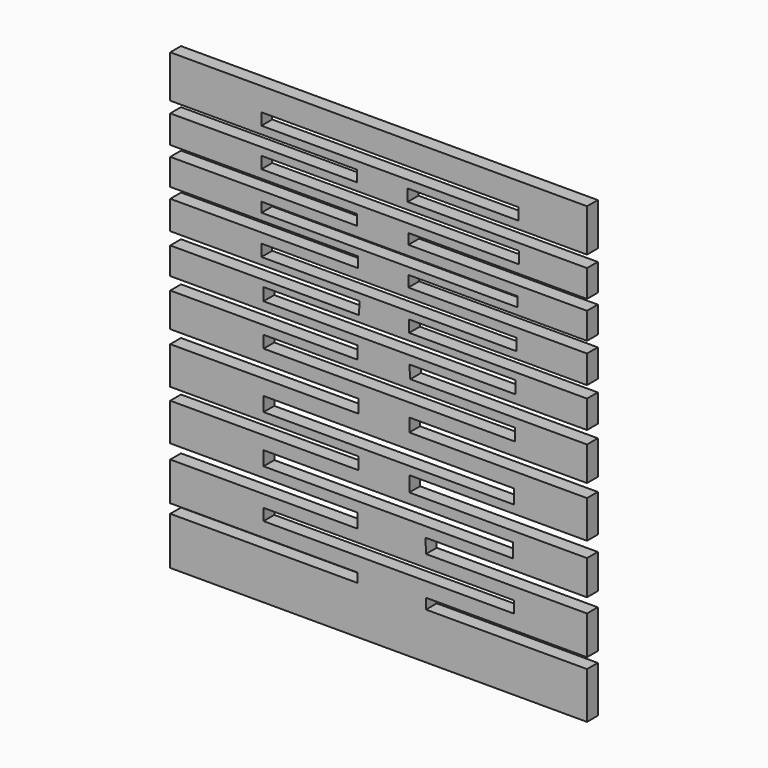
from build123d import *

# Parameters (mm, degrees)
F0_W     = 71.032305
F0_H     = 3.316156
F0_W_2   = 70.65738
F0_H_2   = 4.029283
F0_W_3   = 70.945185
F0_H_3   = 4.029279
F0_W_4   = 71.23299
F0_H_4   = 3.453669
F0_W_5   = 71.426928
F0_H_5   = 3.551615
F0_W_6   = 72.216179
F0_H_6   = 3.354305
F0_W_7   = 72.610803
F0_H_7   = 2.762366
F0_W_8   = 73.005423
F0_H_8   = 3.354303
F0_W_9   = 72.808113
F0_H_9   = 3.354299
F1_DEPTH = 3.81


with BuildPart() as f1:
    # F0 (on Front) → F1 (new body)
    with BuildSketch(Plane.XZ):
        Polygon((56.841634, 59.431892), (-61.265364, 59.431892), (-61.265364, 47.354873), (-8.385758, 47.354873), (-8.385758, 44.197883), (-61.265364, 44.197883), (-61.265364, 36.305401), (-8.385758, 36.305401), (-8.385758, 33.345722), (-61.265364, 33.345722), (-61.265364, 25.847867), (-7.991134, 25.847867), (-7.991134, 22.888189), (-61.265364, 22.888189), (-61.265364, 14.798397), (-7.596511, 14.798397), (-7.793822, 11.246782), (-61.265364, 11.246782), (-61.265364, 3.597572), (-8.202464, 3.597572), (-8.202464, 0), (-61.265364, 0), (-61.265364, -9.641493), (-7.914659, -9.641493), (-7.914659, -13.382968), (-61.265364, -13.382968), (-61.265364, -24.031783), (-7.914659, -24.031783), (-7.914659, -27.485449), (-61.265364, -27.485449), (-61.265364, -38.134262), (-8.202464, -38.134262), (-8.202464, -42.163543), (-61.265364, -42.163543), (-61.265364, -53.076919), (-8.202464, -53.076919), (-8.202464, -55.690415), (-61.265364, -55.690415), (-61.265364, -69.217287), (56.841634, -69.217287), (56.841634, -56.036595), (11.206436, -56.036595), (11.206436, -53.076919), (56.841634, -53.076919), (56.841634, -42.163543), (11.206436, -42.163543), (11.080521, -38.134262), (56.841634, -38.134262), (56.841634, -28.348867), (6.475631, -28.348867), (6.475631, -24.031783), (56.841634, -24.031783), (56.841634, -13.382968), (6.475631, -13.382968), (6.475631, -9.641493), (56.841634, -9.641493), (56.841634, 0), (6.763437, 0), (6.475631, 3.597572), (56.841634, 3.597572), (56.841634, 11.444095), (6.412639, 11.444095), (6.412639, 14.798397), (56.841634, 14.798397), (56.841634, 22.690875), (6.215328, 22.690875), (6.215328, 25.847867), (56.841634, 25.847867), (56.841634, 33.345722), (6.215328, 33.345722), (6.215328, 36.305401), (56.841634, 36.305401), (56.841634, 44.000566), (6.018014, 44.000566), (6.018014, 47.354873), (56.841634, 47.354873), align=None)
        with Locations((0.690593, -47.27529)):
            Rectangle(F0_W, F0_H, mode=Mode.SUBTRACT)
        with Locations((0.50313, -33.241566)):
            Rectangle(F0_W_2, F0_H_2, mode=Mode.SUBTRACT)
        with Locations((0.647033, -19.714693)):
            Rectangle(F0_W_3, F0_H_3, mode=Mode.SUBTRACT)
        with Locations((0.790935, -4.173183)):
            Rectangle(F0_W_4, F0_H_4, mode=Mode.SUBTRACT)
        with Locations((0.887904, 7.695167)):
            Rectangle(F0_W_5, F0_H_5, mode=Mode.SUBTRACT)
        with Locations((0.690593, 18.448668)):
            Rectangle(F0_W_6, F0_H_6, mode=Mode.SUBTRACT)
        with Locations((0.887905, 29.202171)):
            Rectangle(F0_W_7, F0_H_7, mode=Mode.SUBTRACT)
        with Locations((1.085214, 40.350296)):
            Rectangle(F0_W_8, F0_H_8, mode=Mode.SUBTRACT)
        with Locations((0.98656, 51.202455)):
            Rectangle(F0_W_9, F0_H_9, mode=Mode.SUBTRACT)
    extrude(amount=F1_DEPTH)


solid = f1.part
